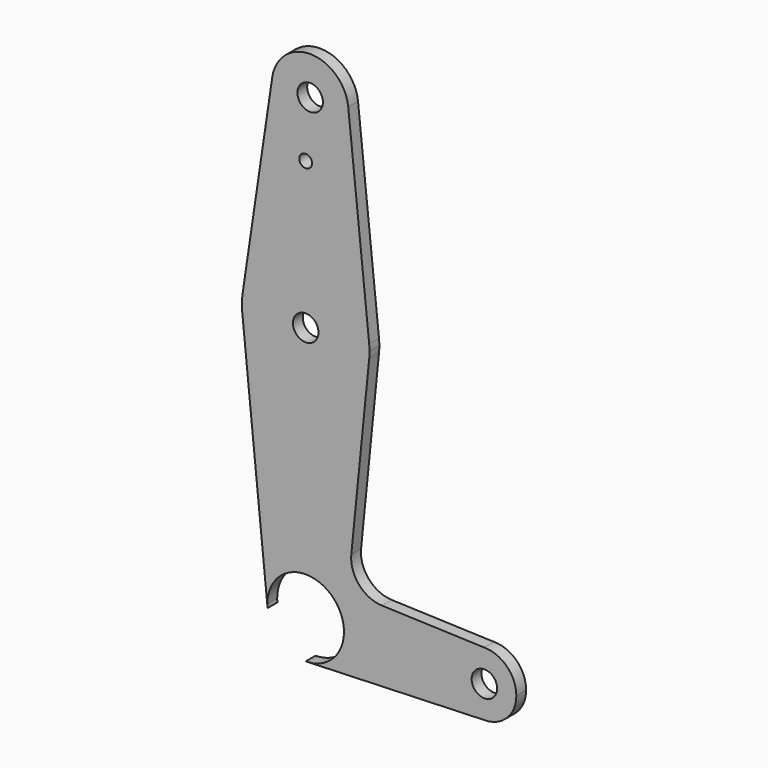
from build123d import *

# Parameters (mm, degrees)
F1_DEPTH = 3.048
F0_R     = 3.175
F0_R_2   = 1.5875


with BuildPart() as f1:
    # F0 (on Front) → F1 (new body)
    with BuildSketch(Plane.XZ):
        with BuildLine():
            Line((0.6794904459, -9.5007324841), (0, -9.525))
            ThreePointArc((0, -9.525), (0.3399618281, -9.5189311877), (0.6794904459, -9.5007324841))
        make_face()
    extrude(amount=F1_DEPTH)


with BuildPart() as f1b:
    # F0 (on Front) → F1, piece 2 (new body)
    with BuildSketch(Plane.XZ):
        with BuildLine():
            ThreePointArc((-9.4772553384, -0.9525), (-9.5130563464, -0.4768479324), (-9.525, 0))
            Line((-9.525, 0), (-9.5729851903, 0))
            Line((-9.5729851903, 0), (-9.4772553384, -0.9525))
        make_face()
        with BuildLine():
            ThreePointArc((10.5838407899, 115.2783708019), (1.3178351498, 123.8173396834), (-8.3122753992, 115.691220013))
            ThreePointArc((-8.3122753992, 115.691220013), (0.4095807766, 104.7953834825), (10.6347791414, 114.2946122538))
            ThreePointArc((10.6347791414, 114.2946122538), (10.6220360293, 114.7871504748), (10.5838407899, 115.2783708019))
        make_face()
        with Locations((1.1097791414, 114.2946122538)):
            Circle(F0_R, mode=Mode.SUBTRACT)
        with BuildLine():
            Line((36.5125, 0), (9.525, 0))
            ThreePointArc((9.525, 0), (6.9712901065, -6.4905114784), (0.6794904459, -9.5007324841))
            Line((0.6794904459, -9.5007324841), (44.45, -7.9375))
            ThreePointArc((44.45, -7.9375), (38.8373399243, -5.6126600757), (36.5125, 0))
        make_face()
        with BuildLine():
            ThreePointArc((44.45, 7.9375), (38.8373399243, 5.6126600757), (36.5125, 0))
            ThreePointArc((36.5125, 0), (38.8373399243, -5.6126600757), (44.45, -7.9375))
            ThreePointArc((44.45, -7.9375), (50.0626600757, -5.6126600757), (52.3875, 0))
            ThreePointArc((52.3875, 0), (50.0626600757, 5.6126600757), (44.45, 7.9375))
        make_face()
        with BuildLine():
            ThreePointArc((47.625, 0), (44.45, -3.175), (41.275, 0))
            ThreePointArc((41.275, 0), (44.45, 3.175), (47.625, 0))
        make_face(mode=Mode.SUBTRACT)
        with BuildLine():
            Line((-8.3122753992, 115.691220013), (-15.7034242344, 65.8276795986))
            ThreePointArc((-15.7034242344, 65.8276795986), (0.3467600139, 79.3712123826), (15.7901027475, 65.13959758))
            Line((15.7901027475, 65.13959758), (10.5838407899, 115.2783708019))
            ThreePointArc((10.5838407899, 115.2783708019), (10.6220360293, 114.7871504748), (10.6347791414, 114.2946122538))
            ThreePointArc((10.6347791414, 114.2946122538), (0.4095807766, 104.7953834825), (-8.3122753992, 115.691220013))
        make_face()
        with Locations((0, 100.0252)):
            Circle(F0_R_2, mode=Mode.SUBTRACT)
        with BuildLine():
            ThreePointArc((-15.7034242344, 65.8276795986), (-15.8706188436, 63.8729376901), (-15.7954255641, 61.9125))
            ThreePointArc((-15.7954255641, 61.9125), (0, 47.625), (15.7954255641, 61.9125))
            ThreePointArc((15.7954255641, 61.9125), (15.8550939106, 62.7052534459), (15.875, 63.5))
            ThreePointArc((15.875, 63.5), (15.8537614798, 64.3208970349), (15.7901027475, 65.13959758))
            ThreePointArc((15.7901027475, 65.13959758), (0.3467600139, 79.3712123826), (-15.7034242344, 65.8276795986))
        make_face()
        with Locations((0, 63.5)):
            Circle(F0_R, mode=Mode.SUBTRACT)
        with BuildLine():
            Line((-9.5729851903, 0), (-9.525, 0))
            ThreePointArc((-9.525, 0), (0, 9.525), (9.525, 0))
            Line((9.525, 0), (36.5125, 0))
            ThreePointArc((36.5125, 0), (38.8373399243, 5.6126600757), (44.45, 7.9375))
            Line((44.45, 7.9375), (18.9664742022, 8.8511343208))
            ThreePointArc((18.9664742022, 8.8511343208), (13.260685791, 11.5695707689), (11.3409723165, 17.5912497948))
            Line((11.3409723165, 17.5912497948), (15.7954255641, 61.9125))
            ThreePointArc((15.7954255641, 61.9125), (0, 47.625), (-15.7954255641, 61.9125))
            Line((-15.7954255641, 61.9125), (-9.5729851903, 0))
        make_face()
    extrude(amount=F1_DEPTH)


solid = Compound([f1.part, f1b.part])
